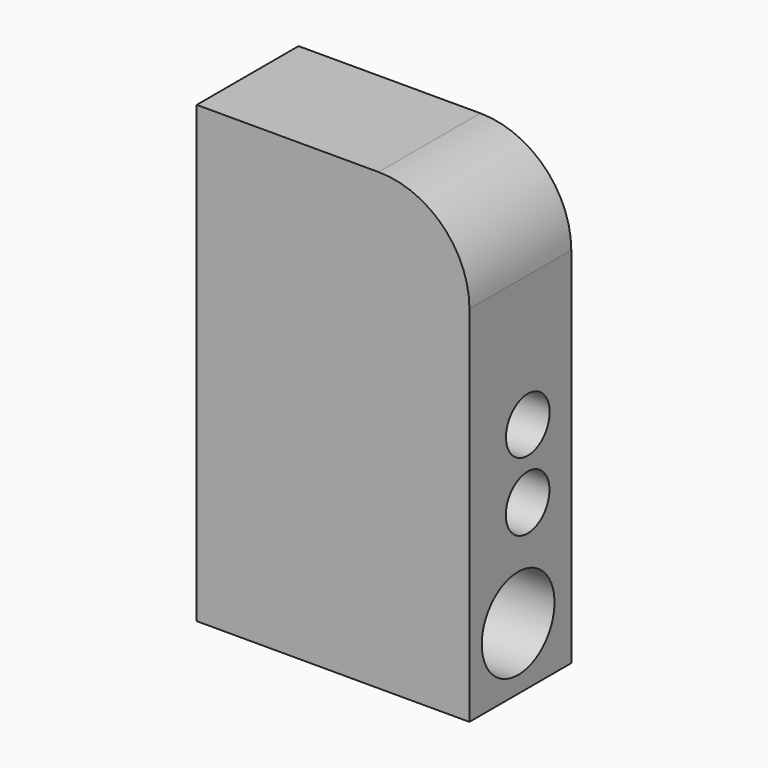
from build123d import *

# Parameters (mm, degrees)
F1_DEPTH = 7
F2_R     = 1.5
F2_R_2   = 2.5
F3_DEPTH = 20


with BuildPart() as f1:
    # F0 (on Front) → F1 (new body)
    with BuildSketch(Plane.XZ):
        with BuildLine():
            Line((10, 0), (0, 0))
            Line((0, 0), (0, -25))
            Line((0, -25), (15, -25))
            Line((15, -25), (15, -5))
            ThreePointArc((15, -5), (13.535534, -1.464466), (10, 0))
        make_face()
    extrude(amount=F1_DEPTH)

    # F2 (on face) → F3 (cut)
    with BuildSketch(Plane(origin=(0, 0, 0), x_dir=(0, -1, 0), z_dir=(-1, 0, 0))):
        with Locations((2.988549, -12.238131)):
            Circle(F2_R)
        with Locations((3, -16)):
            Circle(F2_R)
        with Locations((3.653436, -21.588029)):
            Circle(F2_R_2)
    extrude(amount=-F3_DEPTH, mode=Mode.SUBTRACT)


solid = f1.part
